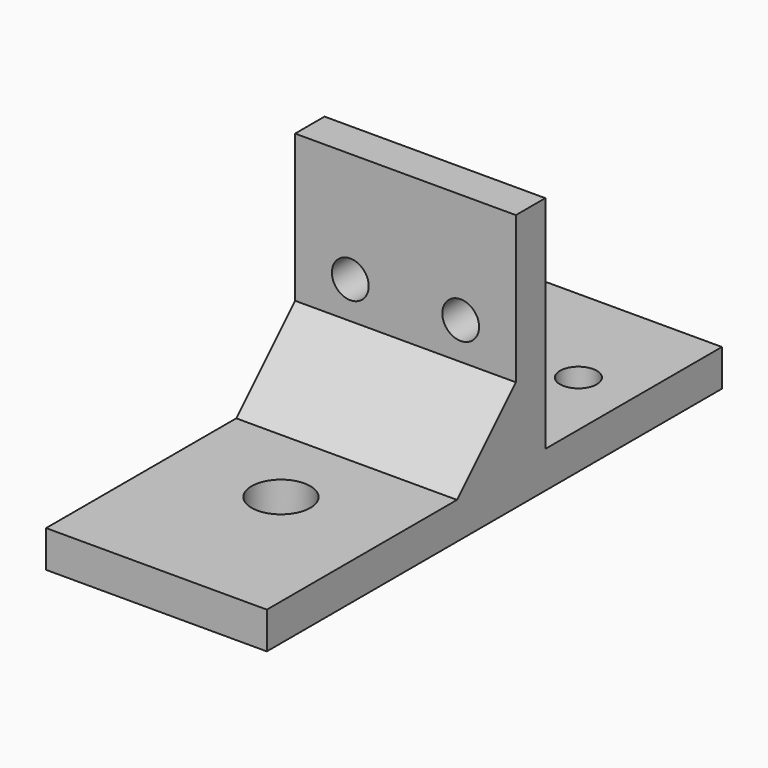
from build123d import *

# Parameters (mm, degrees)
F0_W     = 30
F0_H     = 30
F0_R     = 2.5
F0_H_2   = 5
F0_H_3   = 42.3
F0_R_2   = 4
F1_DEPTH = 5
F2_DEPTH = 35
F4_D     = 5
F4_DEPTH = 12.7
F5_SIZE  = 10


with BuildPart() as f1:
    # F0 (on Top) → F1 (new body)
    with BuildSketch(Plane.XY):
        with Locations((0, 23.65)):
            Rectangle(F0_W, F0_H)
        with Locations((-7.5, 23.65)):
            Circle(F0_R, mode=Mode.SUBTRACT)
        with Locations((7.5, 23.65)):
            Circle(F0_R, mode=Mode.SUBTRACT)
        with Locations((0, 6.15)):
            Rectangle(F0_W, F0_H_2)
        with Locations((0, -17.5)):
            Rectangle(F0_W, F0_H_3)
        with Locations((0, -17.5)):
            Circle(F0_R_2, mode=Mode.SUBTRACT)
    extrude(amount=F1_DEPTH)

    # F0 (on Top) → F2 (join)
    with BuildSketch(Plane.XY):
        with Locations((0, 6.15)):
            Rectangle(F0_W, F0_H_2)
    extrude(amount=F2_DEPTH)

    # F4
    with Locations(Plane.XZ):
        with Locations((-7.5, 20), (7.5, 20)):
            Hole(F4_D / 2, depth=F4_DEPTH)

    # F5
    f5_edges = [f1.edges().sort_by_distance(p)[0] for p in [
        (0, 3.65, 5),
    ]]
    chamfer(f5_edges, length=F5_SIZE)


solid = f1.part
